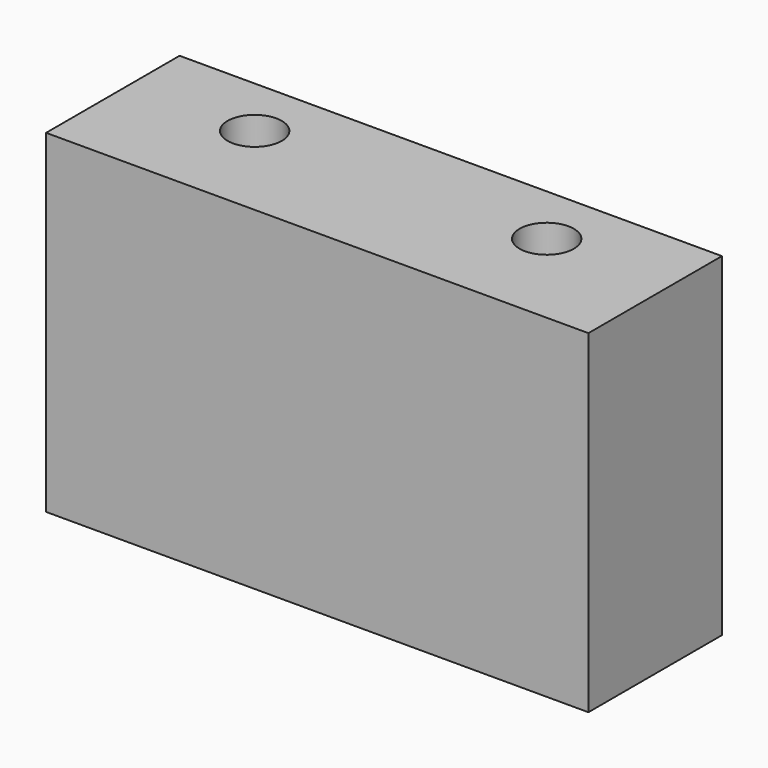
from build123d import *

# Parameters (mm, degrees)
SKETCH_W     = 65
SKETCH_H     = 20
PAD_DEPTH    = 40
SKETCH001_R  = 3.25
POCKET_DEPTH = 40.001


with BuildPart() as part:
    # Sketch → Pad (new body)
    with BuildSketch(Plane.XY):
        with Locations((32.5, 10)):
            Rectangle(SKETCH_W, SKETCH_H)
    extrude(amount=PAD_DEPTH)

    # Sketch001 (on Face6 of Pad) → Pocket (cut, through all)
    with BuildSketch(Plane.XY.offset(40)):
        with Locations((15, 12.5)):
            Circle(SKETCH001_R)
        with Locations((50, 12.5)):
            Circle(SKETCH001_R)
    extrude(amount=-POCKET_DEPTH, mode=Mode.SUBTRACT)


solid = part.part
